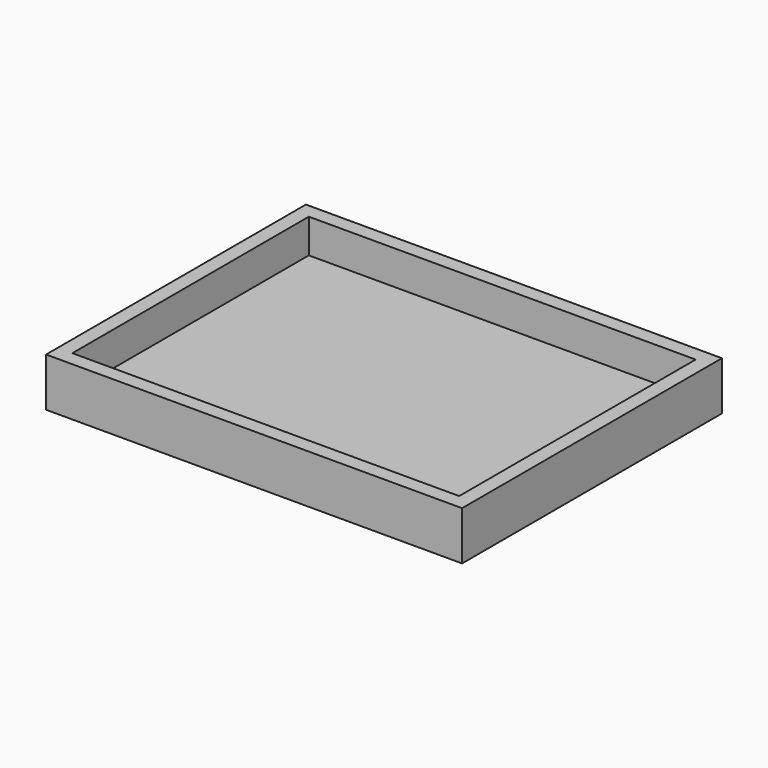
from build123d import *

# Parameters (mm, degrees)
SKETCH_W     = 85.5
SKETCH_H     = 66.75
PAD_DEPTH    = 10
SKETCH001_W  = 79.5
SKETCH001_H  = 60.75
POCKET_DEPTH = 7


with BuildPart() as part:
    # Sketch → Pad (new body)
    with BuildSketch(Plane.XY):
        Rectangle(SKETCH_W, SKETCH_H)
    extrude(amount=PAD_DEPTH)

    # Sketch001 (on Face6 of Pad) → Pocket (cut)
    with BuildSketch(Plane.XY.offset(10)):
        Rectangle(SKETCH001_W, SKETCH001_H)
    extrude(amount=-POCKET_DEPTH, mode=Mode.SUBTRACT)


solid = part.part
